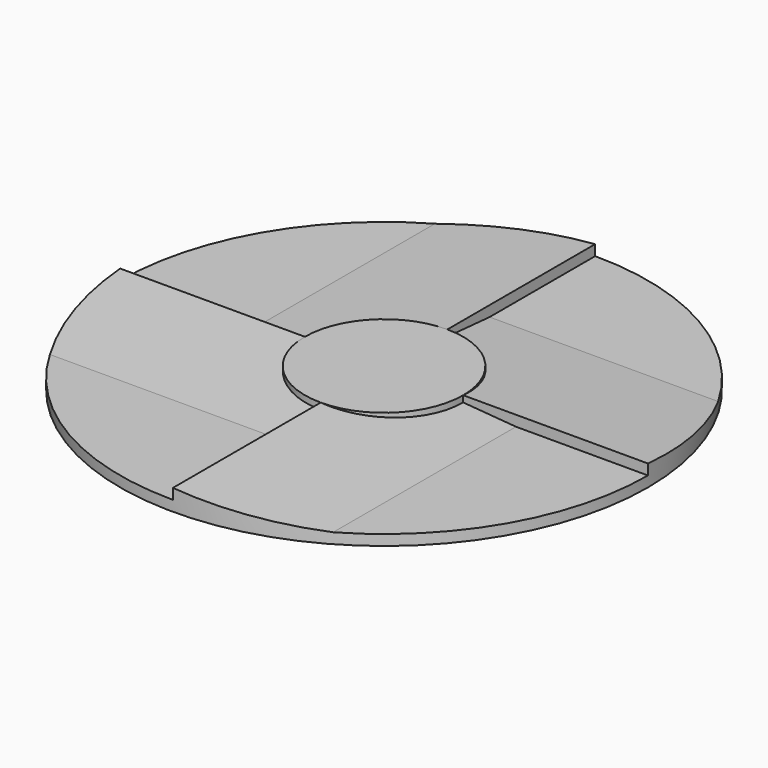
from build123d import *

# Parameters (mm, degrees)
F0_R          = 50
F0_R_2        = 15
F1_DEPTH      = 3
F2_DEPTH      = 5
F4_DEPTH      = 50
F5_COUNT      = 4
F6_R          = 62.5
F6_R_2        = 50
F7_DEPTH      = 25
F8_W          = 200
F8_H          = 2
F9_DEPTH      = 100
F9_DEPTH_BACK = 100


with BuildPart() as f1:
    # F0 (on Top) → F1 (new body)
    with BuildSketch(Plane.XY):
        Circle(F0_R)
        Circle(F0_R_2, mode=Mode.SUBTRACT)
    extrude(amount=F1_DEPTH)

    # F0 (on Top) → F2 (join)
    with BuildSketch(Plane.XY):
        Circle(F0_R_2)
    extrude(amount=F2_DEPTH)

    # F3 (on Front) → F4 (join)
    with BuildSketch(Plane.XZ):
        Polygon((0, 5), (0, 3), (25, 3), align=None)
    extrude(amount=F4_DEPTH)

    # F5: F1 ×4 about axis
    f5_axis = Axis((0, 0, 3), (0, 0, 1))


with BuildPart() as f1_1:
    add(f1.part)
    for i in range(1, F5_COUNT):
        add(f1.part.rotate(f5_axis, i * 360 / F5_COUNT))

    # F6 (on Top) → F7 (cut)
    with BuildSketch(Plane.XY):
        Circle(F6_R)
        Circle(F6_R_2, mode=Mode.SUBTRACT)
    extrude(amount=F7_DEPTH, mode=Mode.SUBTRACT)

    # F8 (on Front) → F9 (cut, two sides)
    with BuildSketch(Plane.XZ) as f9_sk:
        Rectangle(F8_W, F8_H)
    extrude(amount=-F9_DEPTH, mode=Mode.SUBTRACT)
    extrude(f9_sk.sketch, amount=F9_DEPTH_BACK, mode=Mode.SUBTRACT)


solid = f1_1.part
